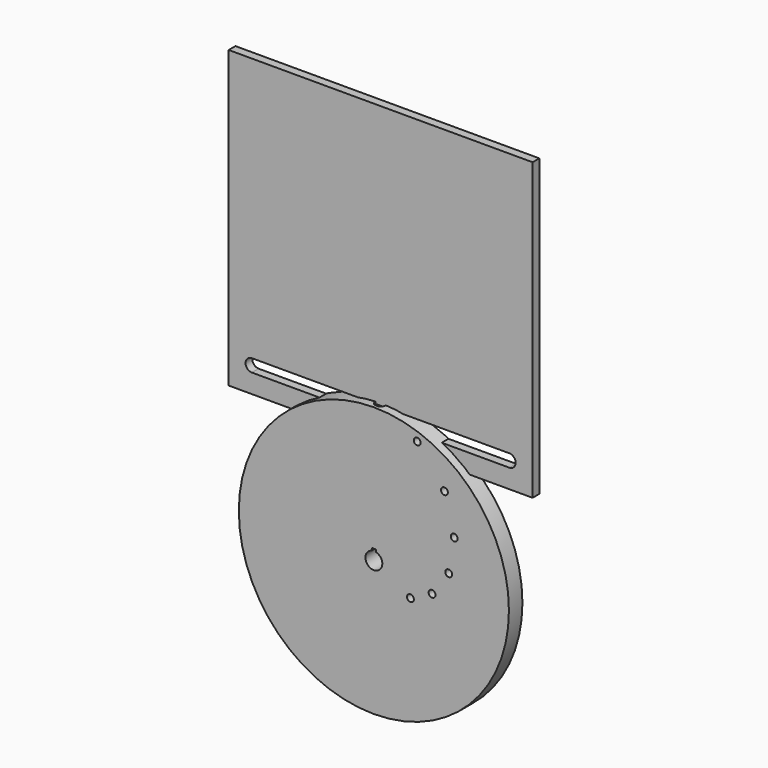
from build123d import *

# Parameters (mm, degrees)
F0_R      = 101.6
F0_R_2    = 6.35
F1_DEPTH  = 12.7
F2_W      = 3.175
F2_H      = 3.175
F3_DEPTH  = 12.701
F4_R      = 2.579688
F5_DEPTH  = 12.7
F6_R      = 2.579688
F7_DEPTH  = 25.4
F9_R      = 3.96875
F10_DEPTH = 133.35
F11_W     = 228.6
F11_H     = 222.25
F12_DEPTH = 6.35


with BuildPart() as f1:
    # F0 (on Front) → F1 (new body)
    with BuildSketch(Plane.XZ):
        Circle(F0_R)
        Circle(F0_R_2, mode=Mode.SUBTRACT)
    extrude(amount=F1_DEPTH)

    # F2 (on Front) → F3 (cut, through all)
    with BuildSketch(Plane.XZ):
        with Locations((0, 6.35)):
            Rectangle(F2_W, F2_H)
    extrude(amount=F3_DEPTH, mode=Mode.SUBTRACT)

    # F4 (on Front) → F5 (cut, through all)
    with BuildSketch(Plane.XZ):
        with Locations((32.577419, 89.505722)):
            Circle(F4_R)
        with Locations((53.062117, 63.236969)):
            Circle(F4_R)
        with Locations((60.491874, 34.925)):
            Circle(F4_R)
        with Locations((56.281763, 9.923993)):
            Circle(F4_R)
        with Locations((43.774705, -7.718661)):
            Circle(F4_R)
        with Locations((27.496307, -15.875)):
            Circle(F4_R)
    extrude(amount=F5_DEPTH, mode=Mode.SUBTRACT)

    # F6 (on Top) → F7 (cut)
    with BuildSketch(Plane.XY):
        with Locations((0, -6.35)):
            Circle(F6_R)
    extrude(amount=F7_DEPTH, mode=Mode.SUBTRACT)

    # F9 (on offset) → F10 (cut)
    with BuildSketch(Plane.XY.offset(152.4)):
        with Locations((0, -6.35)):
            Circle(F9_R)
    extrude(amount=-F10_DEPTH, mode=Mode.SUBTRACT)


with BuildPart() as f12:
    # F11 (on Front) → F12 (new body)
    with BuildSketch(Plane.XZ):
        with Locations((0, 187.325)):
            Rectangle(F11_W, F11_H)
        with BuildLine():
            ThreePointArc((96.8375, 100.0125), (101.6, 95.25), (96.8375, 90.4875))
            Line((96.8375, 90.4875), (-96.8375, 90.4875))
            ThreePointArc((-96.8375, 90.4875), (-101.6, 95.25), (-96.8375, 100.0125))
            Line((-96.8375, 100.0125), (96.8375, 100.0125))
        make_face(mode=Mode.SUBTRACT)
    extrude(amount=F12_DEPTH)


solid = Compound([f1.part, f12.part])
